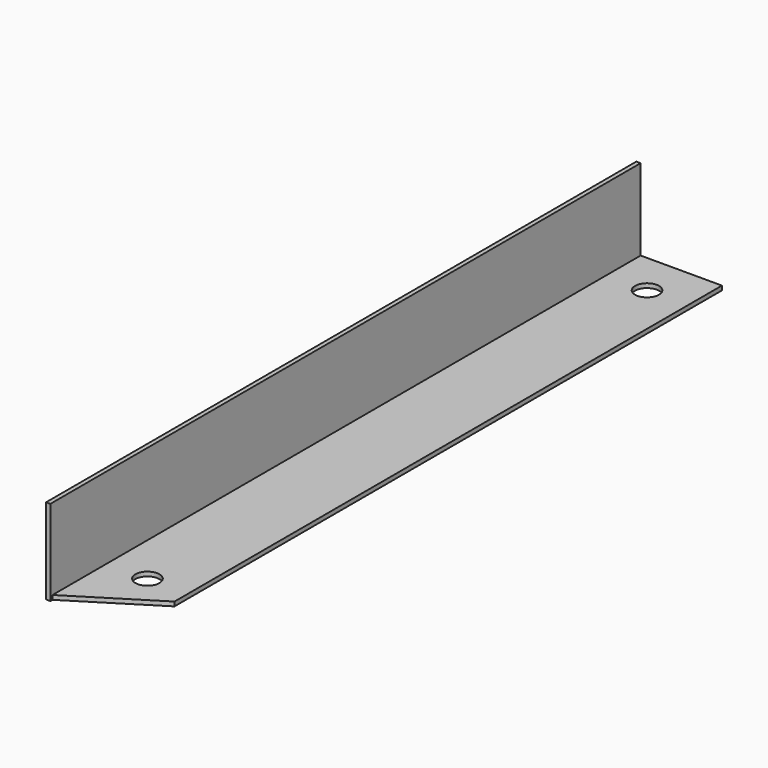
from build123d import *

# Parameters (mm, degrees)
F1_DEPTH = 862
F2_R     = 14
F3_DEPTH = 5
F5_DEPTH = 5


with BuildPart() as f1:
    # F0 (on Front) → F1 (new body)
    with BuildSketch(Plane.XZ):
        Polygon((0, 100), (0, 0), (100, 0), (100, 5), (5, 5), (5, 100), align=None)
    extrude(amount=F1_DEPTH)

    # F2 (on face) → F3 (cut, through all)
    with BuildSketch(Plane.XY.offset(5)):
        with Locations((52.5, -50)):
            Circle(F2_R)
        with Locations((52.5, -779.6)):
            Circle(F2_R)
    extrude(amount=-F3_DEPTH, mode=Mode.SUBTRACT)

    # F4 (on face) → F5 (cut)
    with BuildSketch(Plane.XY.offset(5)):
        Polygon((100, -799.513065), (5, -858.875653), (5, -862), (100, -862), align=None)
    extrude(amount=-F5_DEPTH, mode=Mode.SUBTRACT)


solid = f1.part
